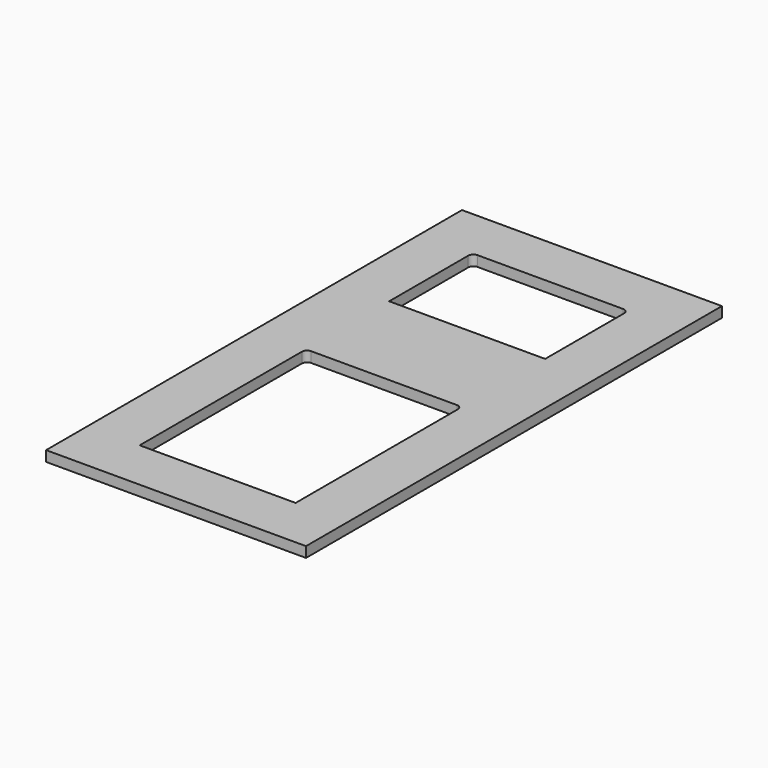
from build123d import *

# Parameters (mm, degrees)
BOX001_W     = 30
BOX001_H     = 40
BOX001_DEPTH = 10
BOX002_W     = 30
BOX002_H     = 20
BOX002_DEPTH = 10
BOX_W        = 50
BOX_H        = 100
BOX_DEPTH    = 2
FILLET001_R  = 1
FILLET002_R  = 1


with BuildPart() as cubo001:
    # Box001 → Box001 (new body)
    with BuildSketch(Plane(origin=(10, 10, 0), x_dir=(1, 0, 0), z_dir=(0, 0, 1))):
        with Locations((15, 20)):
            Rectangle(BOX001_W, BOX001_H)
    extrude(amount=BOX001_DEPTH)


with BuildPart() as fusion:
    # Box002 → Box002 (new body)
    with BuildSketch(Plane(origin=(10, 70, 0), x_dir=(1, 0, 0), z_dir=(0, 0, 1))):
        with Locations((15, 10)):
            Rectangle(BOX002_W, BOX002_H)
    extrude(amount=BOX002_DEPTH)

    # Fusion: union Cubo001
    add(cubo001.part)


with BuildPart() as fillet002:
    # Box → Box (new body)
    with BuildSketch(Plane.XY):
        with Locations((25, 50)):
            Rectangle(BOX_W, BOX_H)
    extrude(amount=BOX_DEPTH)

    # Cut: cut Fusion
    add(fusion.part, mode=Mode.SUBTRACT)

    # Fillet001
    fillet001_edges = [fillet002.edges().sort_by_distance(p)[0] for p in [
        (10, 50, 1),
        (10, 90, 1),
    ]]
    fillet(fillet001_edges, radius=FILLET001_R)

    # Fillet002
    fillet002_edges = [fillet002.edges().sort_by_distance(p)[0] for p in [
        (40, 50, 1),
        (40, 90, 1),
    ]]
    fillet(fillet002_edges, radius=FILLET002_R)


solid = fillet002.part
